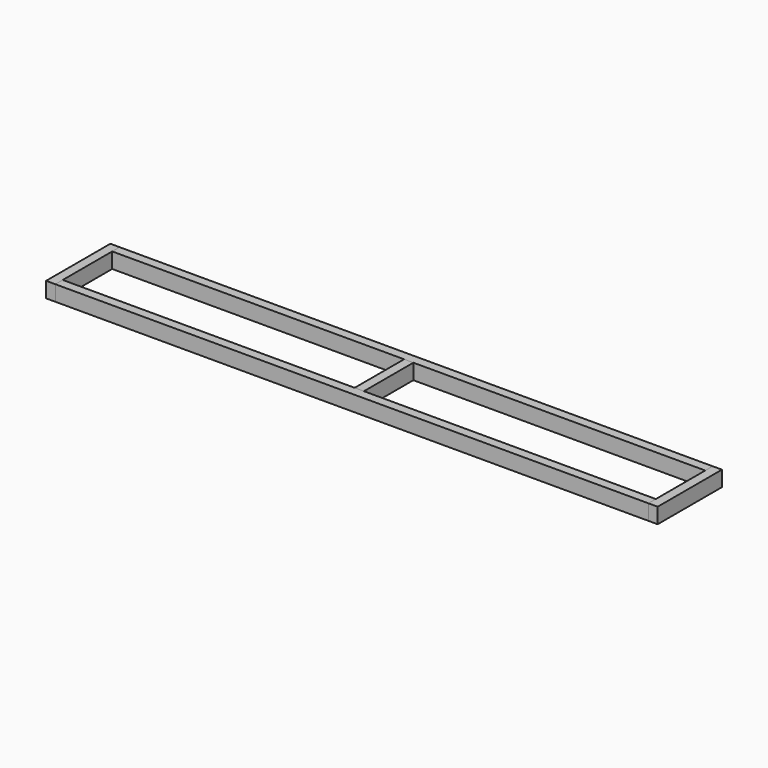
from build123d import *

# Parameters (mm, degrees)
F0_W     = 38.1
F0_H     = 63.5
F1_DEPTH = 2438.4
F2_W     = 38.1
F2_H     = 63.5
F3_DEPTH = 330.2
F6_W     = 38.1
F6_H     = 63.5
F7_DEPTH = 254


with BuildPart() as f1:
    # F0 (on Right) → F1 (new body)
    with BuildSketch(Plane.YZ):
        Rectangle(F0_W, F0_H)
    extrude(amount=F1_DEPTH)


with BuildPart() as f3:
    # F2 (on face) → F3 (new body)
    with BuildSketch(Plane.XZ.offset(19.05)):
        with Locations((-19.05, 0)):
            Rectangle(F2_W, F2_H)
    extrude(amount=-F3_DEPTH)


with BuildPart() as f4_1:
    # F4: copy of F1
    add(f1.part.moved(Location((0, 292.1, 0))))


with BuildPart() as f5_1:
    # F5: copy of F3
    add(f3.part.moved(Location((2476.5, 0, 0))))


with BuildPart() as f7:
    # F6 (on face) → F7 (new body, through all)
    with BuildSketch(Plane.XZ.offset(-273.05)):
        with Locations((1219.2, 0)):
            Rectangle(F6_W, F6_H)
    extrude(amount=F7_DEPTH)


solid = Compound([f1.part, f3.part, f4_1.part, f5_1.part, f7.part])
